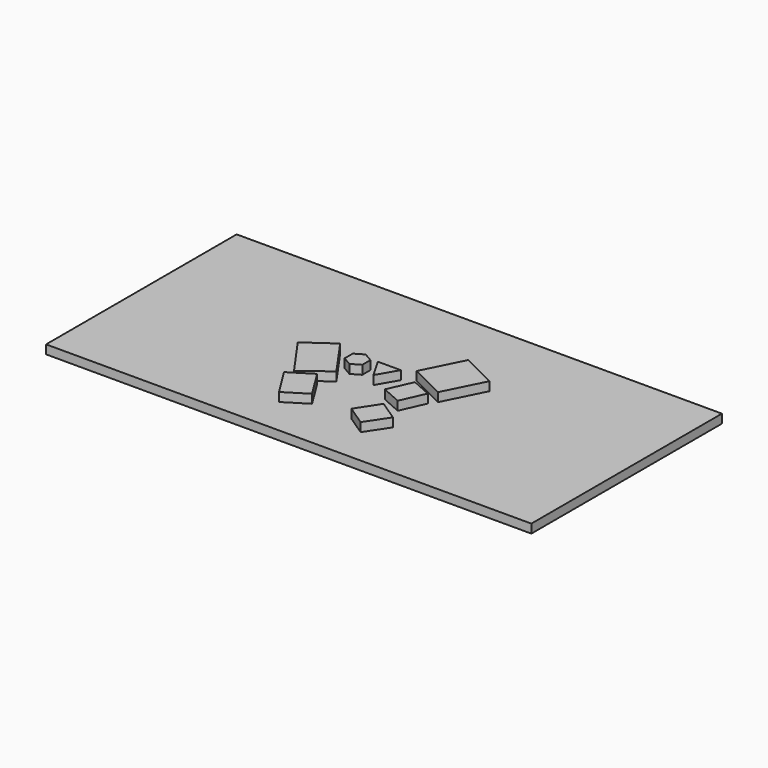
from build123d import *

# Parameters (mm, degrees)
F0_W     = 1397
F0_H     = 685.8
F1_DEPTH = 25.4
F3_DEPTH = 25.4


with BuildPart() as f1:
    # F0 (on Top) → F1 (new body)
    with BuildSketch(Plane.XY):
        Rectangle(F0_W, F0_H)
    extrude(amount=F1_DEPTH)


with BuildPart() as f3:
    # F2 (on face) → F3 (new body)
    with BuildSketch(Plane.XY.offset(25.4)):
        Polygon((-232.400561, -19.960643), (-152.4, -133.35), (-76.2, -76.2), (-154.267636, 35.165146), align=None)
        Polygon((120.65, -234.95), (162.983333, -171.45), (105.278527, -132.980129), (63.5, -196.85), align=None)
        Polygon((0, -38.1), (32.995568, 19.05), (-32.995568, 19.05), align=None)
        Polygon((-50.8, -14.664697), (-50.8, 14.664697), (-76.2, 29.329394), (-101.6, 14.664697), (-101.6, -14.664697), (-76.2, -29.329394), align=None)
        Polygon((63.5, -76.2), (120.65, -101.6), (151.597751, -31.96756), (94.447751, -6.56756), align=None)
        Polygon((63.5, 38.1), (165.1, -12.7), (222.12395, 101.347899), (120.52395, 152.147899), align=None)
        Polygon((-114.3, -234.95), (-50.8, -195.240056), (-102.485765, -112.589573), (-165.985765, -152.299517), align=None)
    extrude(amount=F3_DEPTH)


solid = Compound([f1.part, f3.part])
